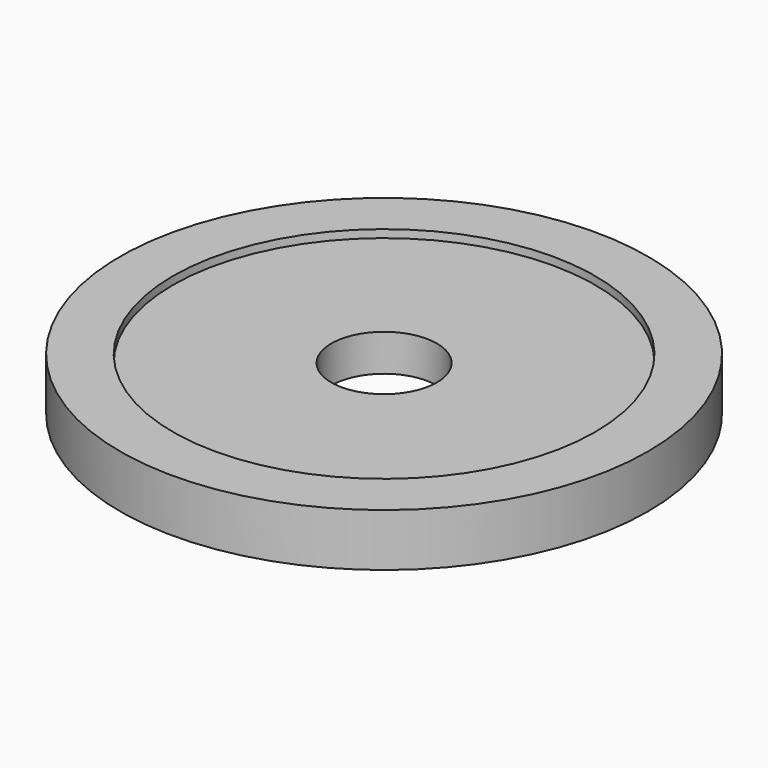
from build123d import *

# Parameters (mm, degrees)
F0_R     = 100
F0_R_2   = 95
F0_R_3   = 80
F0_R_4   = 20
F1_DEPTH = 20
F2_R     = 80
F2_R_2   = 20
F3_DEPTH = 3
F4_R     = 80.0102
F4_R_2   = 20
F5_DEPTH = 3


with BuildPart() as f1:
    # F0 (on Top) → F1 (new body)
    with BuildSketch(Plane.XY):
        Circle(F0_R)
        Circle(F0_R_2, mode=Mode.SUBTRACT)
        Circle(F0_R_2)
        Circle(F0_R_3, mode=Mode.SUBTRACT)
        Circle(F0_R_3)
        Circle(F0_R_4, mode=Mode.SUBTRACT)
    extrude(amount=F1_DEPTH)

    # F2 (on face) → F3 (cut)
    with BuildSketch(Plane.XY.offset(20)):
        Circle(F2_R)
        Circle(F2_R_2, mode=Mode.SUBTRACT)
    extrude(amount=-F3_DEPTH, mode=Mode.SUBTRACT)

    # F4 (on face) → F5 (cut)
    with BuildSketch(Plane(origin=(0, 0, 0), x_dir=(1, 0, 0), z_dir=(0, 0, -1))):
        Circle(F4_R)
        Circle(F4_R_2, mode=Mode.SUBTRACT)
    extrude(amount=-F5_DEPTH, mode=Mode.SUBTRACT)


solid = f1.part
